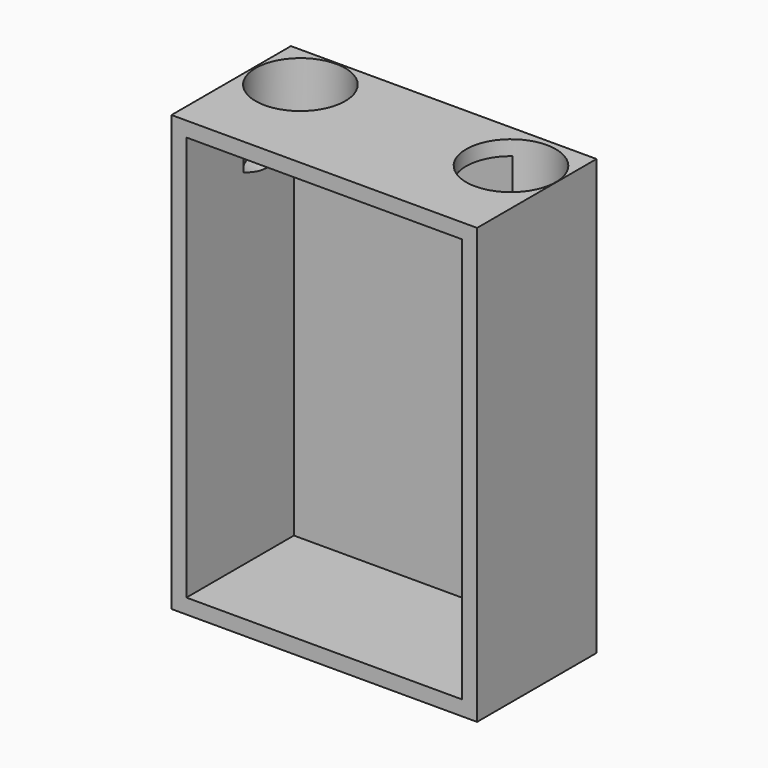
from build123d import *

# Parameters (mm, degrees)
F0_W     = 52
F0_H     = 74
F1_DEPTH = 25.4
F2_T     = -2.54
F4_D     = 15.24
F4_DEPTH = 12.7
F4_TIP   = 4.578557917


with BuildPart() as f1:
    # F0 (on Front) → F1 (new body)
    with BuildSketch(Plane.XZ):
        Rectangle(F0_W, F0_H)
    extrude(amount=F1_DEPTH)

    # F2
    f2_openings = [f1.faces().sort_by_distance(p)[0] for p in [
        (0, -25.4, 0),
    ]]
    offset(amount=F2_T, openings=f2_openings)

    # F4
    with Locations(Plane.XY.offset(37)):
        with Locations((-18.0935505778, -7.8645283356), (18.3343663812, -8.6078010499)):
            Hole(F4_D / 2, depth=F4_DEPTH)
            with Locations((0, 0, -(F4_DEPTH + F4_TIP / 2))):  # 118° drill point
                Cone(0, F4_D / 2, F4_TIP, mode=Mode.SUBTRACT)


solid = f1.part
